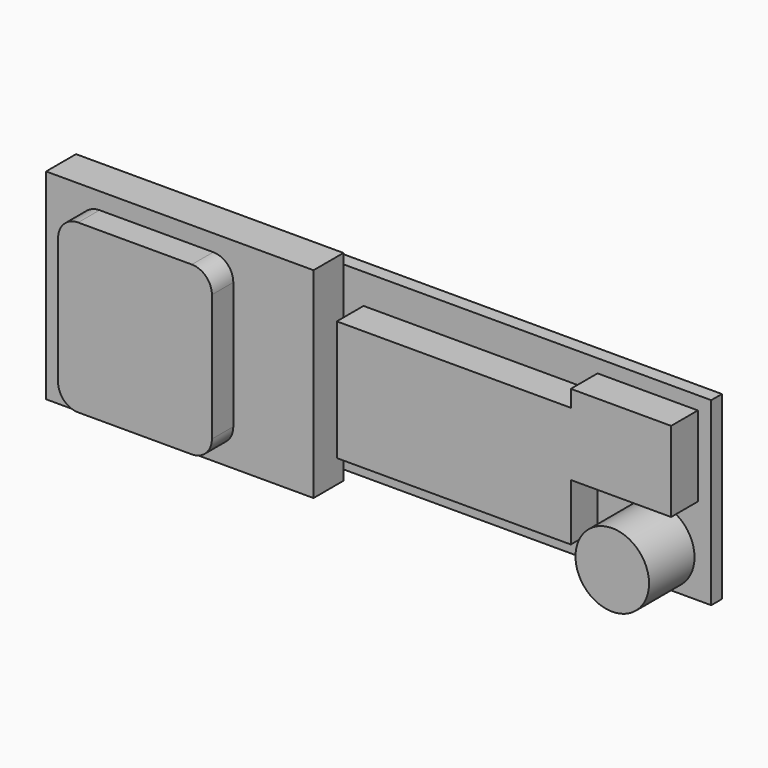
from build123d import *

# Parameters (mm, degrees)
F0_W      = 69
F0_H      = 27
F1_DEPTH  = 2
F2_W      = 40
F2_H      = 30
F3_DEPTH  = 5.6
F4_W      = 35
F4_H      = 18
F5_DEPTH  = 5
F6_W      = 15
F6_H      = 12
F7_DEPTH  = 5
F8_R      = 5.5
F9_DEPTH  = 8.5
F11_DEPTH = 4


with BuildPart() as f1:
    # F0 (on Front) → F1 (new body)
    with BuildSketch(Plane.XZ):
        Rectangle(F0_W, F0_H)
    extrude(amount=F1_DEPTH)

    # F2 (on face) → F3 (join)
    with BuildSketch(Plane.XZ.offset(2)):
        with Locations((-40.5, 0)):
            Rectangle(F2_W, F2_H)
    extrude(amount=F3_DEPTH)

    # F4 (on face) → F5 (join)
    with BuildSketch(Plane.XZ.offset(2)):
        Rectangle(F4_W, F4_H)
    extrude(amount=F5_DEPTH)

    # F6 (on face) → F7 (join)
    with BuildSketch(Plane.XZ.offset(2)):
        with Locations((25, 5.5)):
            Rectangle(F6_W, F6_H)
    extrude(amount=F7_DEPTH)

    # F8 (on face) → F9 (join)
    with BuildSketch(Plane.XZ.offset(2)):
        with Locations((26.5, -8)):
            Circle(F8_R)
    extrude(amount=F9_DEPTH)

    # F10 (on face) → F11 (join)
    with BuildSketch(Plane.XZ.offset(7.6)):
        with BuildLine():
            Line((-35.5, 12.5), (-52.5, 12.5))
            ThreePointArc((-52.5, 12.5), (-54.62132, 11.62132), (-55.5, 9.5))
            Line((-55.5, 9.5), (-55.5, -9.5))
            ThreePointArc((-55.5, -9.5), (-54.62132, -11.62132), (-52.5, -12.5))
            Line((-52.5, -12.5), (-35.5, -12.5))
            ThreePointArc((-35.5, -12.5), (-33.37868, -11.62132), (-32.5, -9.5))
            Line((-32.5, -9.5), (-32.5, 9.5))
            ThreePointArc((-32.5, 9.5), (-33.37868, 11.62132), (-35.5, 12.5))
        make_face()
    extrude(amount=F11_DEPTH)


solid = f1.part
